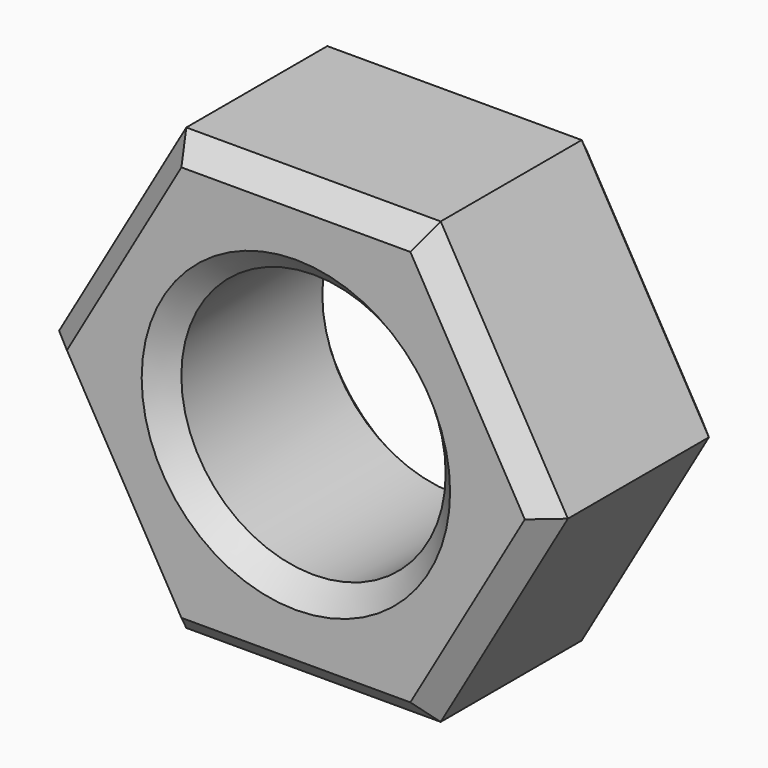
from build123d import *

# Parameters (mm, degrees)
F0_R     = 3
F1_DEPTH = 5
F2_SIZE  = 0.5


with BuildPart() as f1:
    # F0 (on Front) → F1 (new body)
    with BuildSketch(Plane.XZ):
        Polygon((2.886751, 5), (-2.886751, 5), (-5.773503, 0), (-2.886751, -5), (2.886751, -5), (5.773503, 0), align=None)
        Circle(F0_R, mode=Mode.SUBTRACT)
    extrude(amount=F1_DEPTH)

    # F2
    f2_edges = [f1.edges().sort_by_distance(p)[0] for p in [
        (4.330127, -5, 2.5),
        (0, -5, 5),
        (-4.330127, -5, 2.5),
        (-4.330127, -5, -2.5),
        (0, -5, -5),
        (4.330127, -5, -2.5),
        (-3, -5, 0),
        (4.330127, 0, 2.5),
        (0, 0, 5),
        (-4.330127, 0, 2.5),
        (-4.330127, 0, -2.5),
        (0, 0, -5),
        (4.330127, 0, -2.5),
        (-3, 0, 0),
    ]]
    chamfer(f2_edges, length=F2_SIZE)


solid = f1.part
